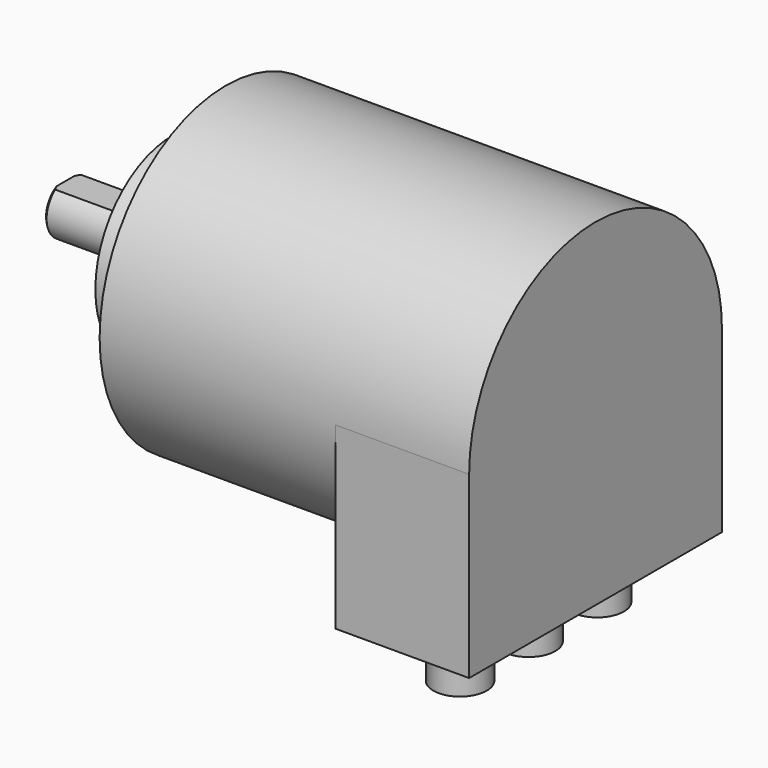
from build123d import *

# Parameters (mm, degrees)
F0_R      = 29.5
F1_DEPTH  = 34.5
F2_R      = 18
F3_DEPTH  = 10
F4_R      = 5
F5_DEPTH  = 20
F7_DEPTH  = 25
F8_R      = 5
F9_DEPTH  = 10
F10_R     = 2
F11_DEPTH = 6
F12_W     = 18
F12_H     = 1
F13_DEPTH = 12.5
F14_SIZE  = 0.5


with BuildPart() as f1:
    # F0 (on Right) → F1 (new body, symmetric)
    with BuildSketch(Plane.YZ):
        Circle(F0_R)
    extrude(amount=F1_DEPTH, both=True)

    # F2 (on face) → F3 (join)
    with BuildSketch(Plane(origin=(-34.5, 0, 0), x_dir=(0, -1, 0), z_dir=(-1, 0, 0))):
        Circle(F2_R)
    extrude(amount=F3_DEPTH)

    # F4 (on face) → F5 (join)
    with BuildSketch(Plane(origin=(-44.5, 0, 0), x_dir=(0, -1, 0), z_dir=(-1, 0, 0))):
        Circle(F4_R)
    extrude(amount=F5_DEPTH)

    # F6 (on face) → F7 (join)
    with BuildSketch(Plane.YZ.offset(34.5)):
        with BuildLine():
            Line((29.5, -33.5), (29.5, 0))
            ThreePointArc((29.5, 0), (0, 29.5), (-29.5, 0))
            Line((-29.5, 0), (-29.5, -33.5))
            Line((-29.5, -33.5), (29.5, -33.5))
        make_face()
    extrude(amount=-F7_DEPTH)

    # F8 (on face) → F9 (join)
    with BuildSketch(Plane(origin=(0, 0, -33.5), x_dir=(1, 0, 0), z_dir=(0, 0, -1))):
        with Locations((22, 16)):
            Circle(F8_R)
        with Locations((22, 0)):
            Circle(F8_R)
        with Locations((22, -16)):
            Circle(F8_R)
    extrude(amount=F9_DEPTH)

    # F10 (on face) → F11 (cut)
    with BuildSketch(Plane(origin=(-34.5, 0, 0), x_dir=(0, -1, 0), z_dir=(-1, 0, 0))):
        with Locations((-20.78461, -12)):
            Circle(F10_R)
        with Locations((0, 24)):
            Circle(F10_R)
        with Locations((20.78461, -12)):
            Circle(F10_R)
    extrude(amount=-F11_DEPTH, mode=Mode.SUBTRACT)

    # F12 (on Front) → F13 (cut, symmetric)
    with BuildSketch(Plane.XZ):
        with Locations((-55.5, 4.5)):
            Rectangle(F12_W, F12_H)
    extrude(amount=F13_DEPTH, both=True, mode=Mode.SUBTRACT)

    # F14
    f14_edges = [f1.edges().sort_by_distance(p)[0] for p in [
        (-64.5, 2.236068, -4.472136),
    ]]
    chamfer(f14_edges, length=F14_SIZE)


solid = f1.part
